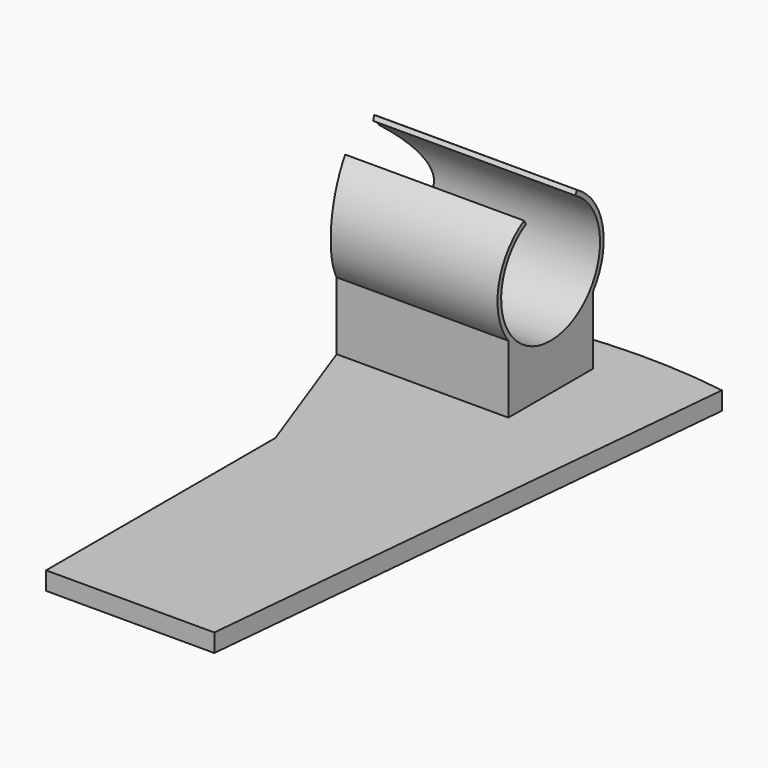
from build123d import *

# Parameters (mm, degrees)
F1_DEPTH = 3.81
F2_W     = 54.356
F2_H     = 38.1
F3_DEPTH = 50.8
F5_DEPTH = 54.357
F7_DEPTH = 38.6182152336


with BuildPart() as f1:
    # F0 (on Top) → F1 (new body)
    with BuildSketch(Plane.XY):
        with BuildLine():
            ThreePointArc((32.3535154368, 26.1046796118), (-0.7575616132, 26.3503201986), (-32.5620487044, 17.1373747646))
            Line((-32.5620487044, 17.1373747646), (32.3535154368, 26.1046796118))
        make_face()
        Polygon((32.3535154368, 26.1046796118), (-32.5620487044, 17.1373747646), (-14.3325939581, -32.94764052), (-14.3325939581, -93.2497044648), (21.0546860419, -93.2497044648), align=None)
    extrude(amount=F1_DEPTH)

    # F2 (on face) → F3 (join)
    with BuildSketch(Plane.XY.offset(3.81)):
        with Locations((-16.1494093879, 7.7088556692)):
            Rectangle(F2_W, F2_H)
        with BuildLine():
            Line((11.0285906121, 26.7588556692), (2.554207671, 26.7588556692))
            ThreePointArc((2.554207671, 26.7588556692), (-15.3877109544, 23.3488645961), (-32.5620487044, 17.1373747646))
            Line((-32.5620487044, 17.1373747646), (-22.1967154377, -11.3411443308))
            Line((-22.1967154377, -11.3411443308), (11.0285906121, -11.3411443308))
            Line((11.0285906121, -11.3411443308), (11.0285906121, 26.7588556692))
        make_face()
    extrude(amount=F3_DEPTH)

    # F4 (on face) → F5 (cut, through all)
    with BuildSketch(Plane.YZ.offset(11.0285906121)):
        with BuildLine():
            Line((0.7238556692, 38.6172152336), (1.2088556692, 37.777170592))
            ThreePointArc((1.2088556692, 37.777170592), (7.7088556692, 13.5188403428), (14.2088556692, 37.777170592))
            Line((14.2088556692, 37.777170592), (14.6938556692, 38.6172152336))
            ThreePointArc((14.6938556692, 38.6172152336), (21.4068223617, 29.2623068525), (18.8143789297, 18.0436852935))
            Line((18.8143789297, 18.0436852935), (18.8143789297, 3.81))
            Line((18.8143789297, 3.81), (26.7588556692, 3.81))
            Line((26.7588556692, 3.81), (26.7588556692, 54.61))
            Line((26.7588556692, 54.61), (-11.3411443308, 54.61))
            Line((-11.3411443308, 54.61), (-11.3411443308, 3.81))
            Line((-11.3411443308, 3.81), (-3.3966675913, 3.81))
            Line((-3.3966675913, 3.81), (-3.3966675913, 18.0436852935))
            ThreePointArc((-3.3966675913, 18.0436852935), (-5.9891110233, 29.2623068525), (0.7238556692, 38.6172152336))
        make_face()
        with BuildLine():
            Line((0.7238556692, 38.6172152336), (1.2088556692, 37.777170592))
            ThreePointArc((1.2088556692, 37.777170592), (7.7088556692, 13.5188403428), (14.2088556692, 37.777170592))
            Line((14.2088556692, 37.777170592), (14.6938556692, 38.6172152336))
            ThreePointArc((14.6938556692, 38.6172152336), (21.4068223617, 29.2623068525), (18.8143789297, 18.0436852935))
            Line((18.8143789297, 18.0436852935), (18.8143789297, 3.81))
            Line((18.8143789297, 3.81), (26.7588556692, 3.81))
            Line((26.7588556692, 3.81), (26.7588556692, 54.61))
            Line((26.7588556692, 54.61), (-11.3411443308, 54.61))
            Line((-11.3411443308, 54.61), (-11.3411443308, 3.81))
            Line((-11.3411443308, 3.81), (-3.3966675913, 3.81))
            Line((-3.3966675913, 3.81), (-3.3966675913, 18.0436852935))
            ThreePointArc((-3.3966675913, 18.0436852935), (-5.9891110233, 29.2623068525), (0.7238556692, 38.6172152336))
        make_face()
    extrude(amount=-F5_DEPTH, mode=Mode.SUBTRACT)

    # F6 (on face) → F7 (cut, through all)
    with BuildSketch(Plane(origin=(0, 0, 0), x_dir=(1, 0, 0), z_dir=(0, 0, -1))):
        with BuildLine():
            ThreePointArc((-11.1417521231, -24.4255824736), (-22.048556528, -21.3594577958), (-32.5620487044, -17.1373747646))
            Line((-32.5620487044, -17.1373747646), (-22.9622920053, 9.2377399985))
            Line((-22.9622920053, 9.2377399985), (-52.2691048682, 17.8252514452))
            Line((-52.2691048682, 17.8252514452), (-60.0504353642, -34.5690436661))
            Line((-60.0504353642, -34.5690436661), (-11.1417521231, -24.4255824736))
        make_face()
    extrude(amount=-F7_DEPTH, mode=Mode.SUBTRACT)


solid = f1.part
